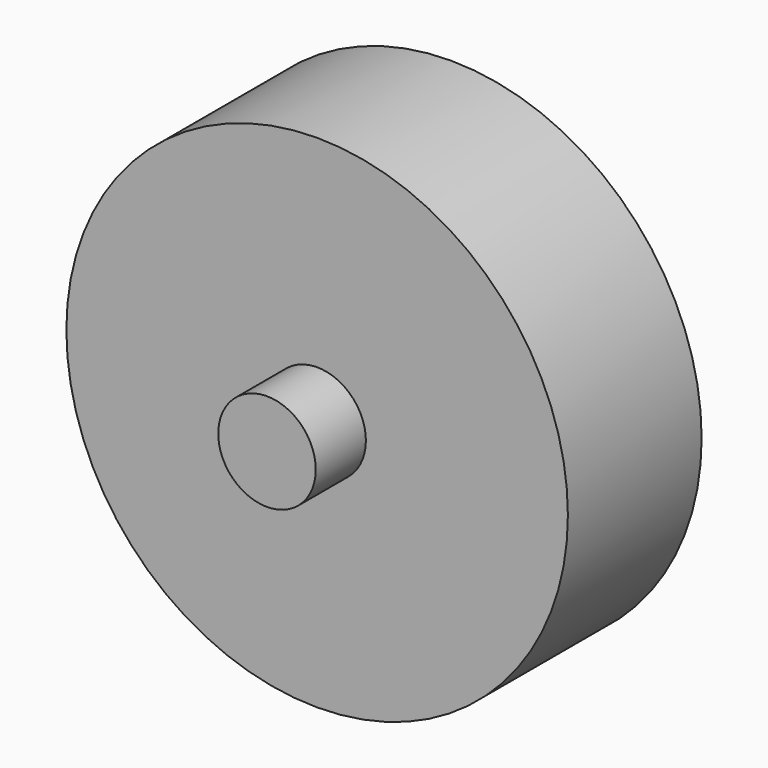
from build123d import *

# Parameters (mm, degrees)
F0_R        = 18
F0_R_2      = 3.5
F1_DEPTH    = 12
F0_R_3      = 1.5
F2_DEPTH    = 16.5
F2_FACE_R   = 3.5
F2_FACE_R_2 = 1.5
F3_DEPTH    = 21
F4_R        = 2.51997
F5_DEPTH    = 1


with BuildPart() as f1:
    # F0 (on Front) → F1 (new body)
    with BuildSketch(Plane.XZ):
        Circle(F0_R)
        Circle(F0_R_2, mode=Mode.SUBTRACT)
    extrude(amount=F1_DEPTH)

    # F0 (on Front) → F2 (join)
    with BuildSketch(Plane.XZ):
        Circle(F0_R_2)
        Circle(F0_R_3, mode=Mode.SUBTRACT)
    extrude(amount=F2_DEPTH)

    # F2_face (on face) → F3 (join)
    with BuildSketch(Plane.XZ.offset(16.5)):
        Circle(F2_FACE_R)
        Circle(F2_FACE_R_2, mode=Mode.SUBTRACT)
    extrude(amount=-F3_DEPTH)

    # F4 (on face) → F5 (join)
    with BuildSketch(Plane.XZ.offset(16.5)):
        Circle(F4_R)
    extrude(amount=-F5_DEPTH)


solid = f1.part
